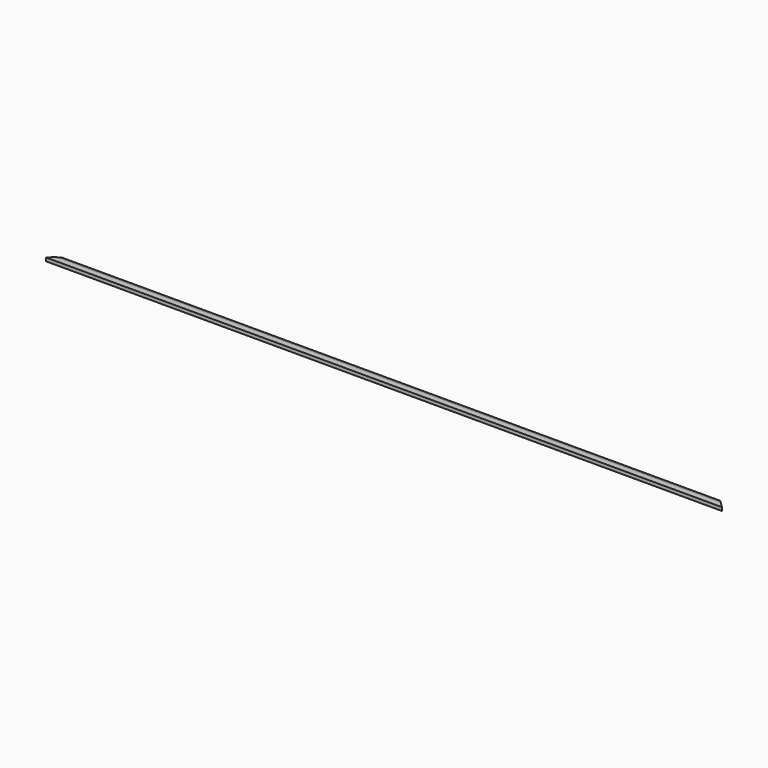
from build123d import *

# Parameters (mm, degrees)
F1_DEPTH = 12
F2_DEPTH = 10


with BuildPart() as f1:
    # F0 (on Top) → F1 (new body)
    with BuildSketch(Plane.XY):
        Polygon((20, 20), (0, 0), (2390, 0), (2370, 20), align=None)
    extrude(amount=F1_DEPTH)

    # F0 (on Top) → F2 (join)
    with BuildSketch(Plane.XY):
        Polygon((30, 30), (20, 20), (2370, 20), (2360, 30), align=None)
    extrude(amount=F2_DEPTH)


with BuildPart() as f3_1:
    # F3: copy of F1
    add(f1.part)


solid = f1.part
